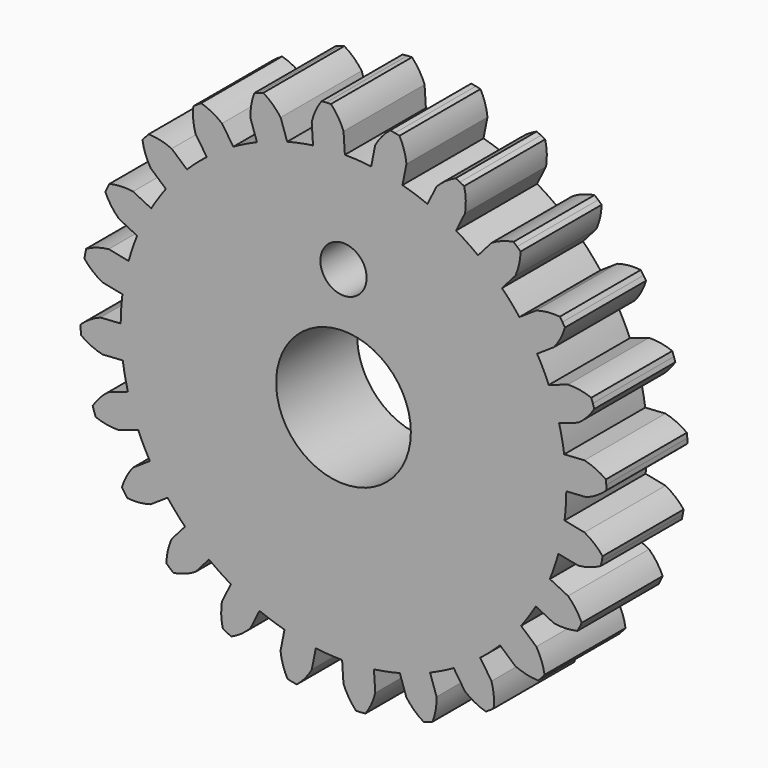
from build123d import *

# Parameters (mm, degrees)
F0_R     = 4.22275
F0_R_2   = 1.449194
F1_DEPTH = 6.35


with BuildPart() as f1:
    # F0 (on Front) → F1 (new body)
    with BuildSketch(Plane.XZ):
        with BuildLine():
            ThreePointArc((13.969731, -0.086696), (13.969933, -0.043348), (13.97, 0))
            ThreePointArc((13.97, 0), (13.937187, 0.956933), (13.838902, 1.90937))
            ThreePointArc((13.838902, 1.90937), (13.70157, 2.725412), (13.516163, 3.53189))
            ThreePointArc((13.516163, 3.53189), (13.228614, 4.490509), (12.873171, 5.426082))
            ThreePointArc((12.873171, 5.426082), (12.529312, 6.178773), (12.14149, 6.909784))
            ThreePointArc((12.14149, 6.909784), (11.61563, 7.761316), (11.030155, 8.573014))
            ThreePointArc((11.030155, 8.573014), (10.503202, 9.211061), (9.939395, 9.816788))
            ThreePointArc((9.939395, 9.816788), (9.211061, 10.503202), (8.435453, 11.13571))
            ThreePointArc((8.435453, 11.13571), (7.761316, 11.61563), (7.059947, 12.054794))
            ThreePointArc((7.059947, 12.054794), (6.178773, 12.529312), (5.265888, 12.939526))
            ThreePointArc((5.265888, 12.939526), (4.490509, 13.228614), (3.699375, 13.471285))
            ThreePointArc((3.699375, 13.471285), (2.725412, 13.70157), (1.737461, 13.861534))
            ThreePointArc((1.737461, 13.861534), (0.913682, 13.940089), (0.086696, 13.969731))
            ThreePointArc((0.086696, 13.969731), (-0.913682, 13.940089), (-1.90937, 13.838902))
            ThreePointArc((-1.90937, 13.838902), (-2.725412, 13.70157), (-3.53189, 13.516163))
            ThreePointArc((-3.53189, 13.516163), (-4.490509, 13.228614), (-5.426082, 12.873171))
            ThreePointArc((-5.426082, 12.873171), (-6.178773, 12.529312), (-6.909784, 12.14149))
            ThreePointArc((-6.909784, 12.14149), (-7.761316, 11.61563), (-8.573014, 11.030155))
            ThreePointArc((-8.573014, 11.030155), (-9.211061, 10.503202), (-9.816788, 9.939395))
            ThreePointArc((-9.816788, 9.939395), (-10.503202, 9.211061), (-11.13571, 8.435453))
            ThreePointArc((-11.13571, 8.435453), (-11.61563, 7.761316), (-12.054794, 7.059947))
            ThreePointArc((-12.054794, 7.059947), (-12.529312, 6.178773), (-12.939526, 5.265888))
            ThreePointArc((-12.939526, 5.265888), (-13.228614, 4.490509), (-13.471285, 3.699375))
            ThreePointArc((-13.471285, 3.699375), (-13.70157, 2.725412), (-13.861534, 1.737461))
            ThreePointArc((-13.861534, 1.737461), (-13.940089, 0.913682), (-13.969731, 0.086696))
            ThreePointArc((-13.969731, 0.086696), (-13.940089, -0.913682), (-13.838902, -1.90937))
            ThreePointArc((-13.838902, -1.90937), (-13.70157, -2.725412), (-13.516163, -3.53189))
            ThreePointArc((-13.516163, -3.53189), (-13.228614, -4.490509), (-12.873171, -5.426082))
            ThreePointArc((-12.873171, -5.426082), (-12.529312, -6.178773), (-12.14149, -6.909784))
            ThreePointArc((-12.14149, -6.909784), (-11.61563, -7.761316), (-11.030155, -8.573014))
            ThreePointArc((-11.030155, -8.573014), (-10.503202, -9.211061), (-9.939395, -9.816788))
            ThreePointArc((-9.939395, -9.816788), (-9.211061, -10.503202), (-8.435453, -11.13571))
            ThreePointArc((-8.435453, -11.13571), (-7.761316, -11.61563), (-7.059947, -12.054794))
            ThreePointArc((-7.059947, -12.054794), (-6.178773, -12.529312), (-5.265888, -12.939526))
            ThreePointArc((-5.265888, -12.939526), (-4.490509, -13.228614), (-3.699375, -13.471285))
            ThreePointArc((-3.699375, -13.471285), (-2.725412, -13.70157), (-1.737461, -13.861534))
            ThreePointArc((-1.737461, -13.861534), (-0.913682, -13.940089), (-0.086696, -13.969731))
            ThreePointArc((-0.086696, -13.969731), (0.913682, -13.940089), (1.90937, -13.838902))
            ThreePointArc((1.90937, -13.838902), (2.725412, -13.70157), (3.53189, -13.516163))
            ThreePointArc((3.53189, -13.516163), (4.490509, -13.228614), (5.426082, -12.873171))
            ThreePointArc((5.426082, -12.873171), (6.178773, -12.529312), (6.909784, -12.14149))
            ThreePointArc((6.909784, -12.14149), (7.761316, -11.61563), (8.573014, -11.030155))
            ThreePointArc((8.573014, -11.030155), (9.211061, -10.503202), (9.816788, -9.939395))
            ThreePointArc((9.816788, -9.939395), (10.503202, -9.211061), (11.13571, -8.435453))
            ThreePointArc((11.13571, -8.435453), (11.61563, -7.761316), (12.054794, -7.059947))
            ThreePointArc((12.054794, -7.059947), (12.529312, -6.178773), (12.939526, -5.265888))
            ThreePointArc((12.939526, -5.265888), (13.228614, -4.490509), (13.471285, -3.699375))
            ThreePointArc((13.471285, -3.699375), (13.70157, -2.725412), (13.861534, -1.737461))
            ThreePointArc((13.861534, -1.737461), (13.940089, -0.913682), (13.969731, -0.086696))
        make_face()
        Circle(F0_R, mode=Mode.SUBTRACT)
        with Locations((0, 7.62)):
            Circle(F0_R_2, mode=Mode.SUBTRACT)
        with BuildLine():
            ThreePointArc((13.838902, 1.90937), (13.937187, 0.956933), (13.97, 0))
            ThreePointArc((13.97, 0), (13.969933, -0.043348), (13.969731, -0.086696))
            Line((13.969731, -0.086696), (15.24, -0.003439))
            ThreePointArc((15.24, -0.003439), (15.90429, 0.32949), (16.491326, 0.785025))
            Line((16.491326, 0.785025), (16.477286, 1.079978))
            Line((16.477286, 1.079978), (16.452707, 1.374241))
            ThreePointArc((16.452707, 1.374241), (15.811233, 1.749255), (15.10917, 1.992628))
            Line((15.10917, 1.992628), (13.838902, 1.90937))
        make_face()
        with BuildLine():
            ThreePointArc((12.873171, 5.426082), (13.228614, 4.490509), (13.516163, 3.53189))
            Line((13.516163, 3.53189), (14.721599, 3.941081))
            ThreePointArc((14.721599, 3.941081), (15.277086, 4.434596), (15.726218, 5.026545))
            Line((15.726218, 5.026545), (15.636317, 5.307814))
            Line((15.636317, 5.307814), (15.536415, 5.585689))
            ThreePointArc((15.536415, 5.585689), (14.819738, 5.781899), (14.078608, 5.835272))
            Line((14.078608, 5.835272), (12.873171, 5.426082))
        make_face()
        with BuildLine():
            Line((15.110068, -1.98581), (13.861534, -1.737461))
            ThreePointArc((13.861534, -1.737461), (13.70157, -2.725412), (13.471285, -3.699375))
            Line((13.471285, -3.699375), (14.719819, -3.947724))
            ThreePointArc((14.719819, -3.947724), (15.447643, -3.79807), (16.132577, -3.509994))
            Line((16.132577, -3.509994), (16.195355, -3.221456))
            Line((16.195355, -3.221456), (16.247774, -2.930859))
            ThreePointArc((16.247774, -2.930859), (15.725219, -2.402598), (15.110068, -1.98581))
        make_face()
        with BuildLine():
            ThreePointArc((11.030155, 8.573014), (11.61563, 7.761316), (12.14149, 6.909784))
            Line((12.14149, 6.909784), (13.199946, 7.617022))
            ThreePointArc((13.199946, 7.617022), (13.608774, 8.237492), (13.889395, 8.925514))
            Line((13.889395, 8.925514), (13.729759, 9.173932))
            Line((13.729759, 9.173932), (13.561341, 9.416481))
            ThreePointArc((13.561341, 9.416481), (12.818302, 9.420516), (12.088611, 9.280252))
            Line((12.088611, 9.280252), (11.030155, 8.573014))
        make_face()
        with BuildLine():
            Line((14.08124, -5.828919), (12.939526, -5.265888))
            ThreePointArc((12.939526, -5.265888), (12.529312, -6.178773), (12.054794, -7.059947))
            Line((12.054794, -7.059947), (13.196508, -7.622978))
            ThreePointArc((13.196508, -7.622978), (13.938264, -7.666798), (14.67442, -7.565812))
            Line((14.67442, -7.565812), (14.809737, -7.303354))
            Line((14.809737, -7.303354), (14.935583, -7.036225))
            ThreePointArc((14.935583, -7.036225), (14.567557, -6.390718), (14.08124, -5.828919))
        make_face()
        with BuildLine():
            ThreePointArc((8.435453, 11.13571), (9.211061, 10.503202), (9.939395, 9.816788))
            Line((9.939395, 9.816788), (10.778738, 10.773876))
            ThreePointArc((10.778738, 10.773876), (11.013046, 11.479016), (11.106032, 12.216225))
            Line((11.106032, 12.216225), (10.88754, 12.41486))
            Line((10.88754, 12.41486), (10.662085, 12.605556))
            ThreePointArc((10.662085, 12.605556), (9.94332, 12.41714), (9.274796, 12.092798))
            Line((9.274796, 12.092798), (8.435453, 11.13571))
        make_face()
        with BuildLine():
            Line((12.092798, -9.274796), (11.13571, -8.435453))
            ThreePointArc((11.13571, -8.435453), (10.503202, -9.211061), (9.816788, -9.939395))
            Line((9.816788, -9.939395), (10.773876, -10.778738))
            ThreePointArc((10.773876, -10.778738), (11.479016, -11.013046), (12.216225, -11.106032))
            Line((12.216225, -11.106032), (12.41486, -10.88754))
            Line((12.41486, -10.88754), (12.605556, -10.662085))
            ThreePointArc((12.605556, -10.662085), (12.41714, -9.94332), (12.092798, -9.274796))
        make_face()
        with BuildLine():
            ThreePointArc((5.265888, 12.939526), (6.178773, 12.529312), (7.059947, 12.054794))
            Line((7.059947, 12.054794), (7.622978, 13.196508))
            ThreePointArc((7.622978, 13.196508), (7.666798, 13.938264), (7.565812, 14.67442))
            Line((7.565812, 14.67442), (7.303354, 14.809737))
            Line((7.303354, 14.809737), (7.036225, 14.935583))
            ThreePointArc((7.036225, 14.935583), (6.390718, 14.567557), (5.828919, 14.08124))
            Line((5.828919, 14.08124), (5.265888, 12.939526))
        make_face()
        with BuildLine():
            Line((9.280252, -12.088611), (8.573014, -11.030155))
            ThreePointArc((8.573014, -11.030155), (7.761316, -11.61563), (6.909784, -12.14149))
            Line((6.909784, -12.14149), (7.617022, -13.199946))
            ThreePointArc((7.617022, -13.199946), (8.237492, -13.608774), (8.925514, -13.889395))
            Line((8.925514, -13.889395), (9.173932, -13.729759))
            Line((9.173932, -13.729759), (9.416481, -13.561341))
            ThreePointArc((9.416481, -13.561341), (9.420516, -12.818302), (9.280252, -12.088611))
        make_face()
        with BuildLine():
            ThreePointArc((1.737461, 13.861534), (2.725412, 13.70157), (3.699375, 13.471285))
            Line((3.699375, 13.471285), (3.947724, 14.719819))
            ThreePointArc((3.947724, 14.719819), (3.79807, 15.447643), (3.509994, 16.132577))
            Line((3.509994, 16.132577), (3.221456, 16.195355))
            Line((3.221456, 16.195355), (2.930859, 16.247774))
            ThreePointArc((2.930859, 16.247774), (2.402598, 15.725219), (1.98581, 15.110068))
            Line((1.98581, 15.110068), (1.737461, 13.861534))
        make_face()
        with BuildLine():
            Line((5.835272, -14.078608), (5.426082, -12.873171))
            ThreePointArc((5.426082, -12.873171), (4.490509, -13.228614), (3.53189, -13.516163))
            Line((3.53189, -13.516163), (3.941081, -14.721599))
            ThreePointArc((3.941081, -14.721599), (4.434596, -15.277086), (5.026545, -15.726218))
            Line((5.026545, -15.726218), (5.307814, -15.636317))
            Line((5.307814, -15.636317), (5.585689, -15.536415))
            ThreePointArc((5.585689, -15.536415), (5.781899, -14.819738), (5.835272, -14.078608))
        make_face()
        with BuildLine():
            ThreePointArc((-1.90937, 13.838902), (-0.913682, 13.940089), (0.086696, 13.969731))
            Line((0.086696, 13.969731), (0.003439, 15.24))
            ThreePointArc((0.003439, 15.24), (-0.32949, 15.90429), (-0.785025, 16.491326))
            Line((-0.785025, 16.491326), (-1.079978, 16.477286))
            Line((-1.079978, 16.477286), (-1.374241, 16.452707))
            ThreePointArc((-1.374241, 16.452707), (-1.749255, 15.811233), (-1.992628, 15.10917))
            Line((-1.992628, 15.10917), (-1.90937, 13.838902))
        make_face()
        with BuildLine():
            Line((1.992628, -15.10917), (1.90937, -13.838902))
            ThreePointArc((1.90937, -13.838902), (0.913682, -13.940089), (-0.086696, -13.969731))
            Line((-0.086696, -13.969731), (-0.003439, -15.24))
            ThreePointArc((-0.003439, -15.24), (0.32949, -15.90429), (0.785025, -16.491326))
            Line((0.785025, -16.491326), (1.079978, -16.477286))
            Line((1.079978, -16.477286), (1.374241, -16.452707))
            ThreePointArc((1.374241, -16.452707), (1.749255, -15.811233), (1.992628, -15.10917))
        make_face()
        with BuildLine():
            ThreePointArc((-5.426082, 12.873171), (-4.490509, 13.228614), (-3.53189, 13.516163))
            Line((-3.53189, 13.516163), (-3.941081, 14.721599))
            ThreePointArc((-3.941081, 14.721599), (-4.434596, 15.277086), (-5.026545, 15.726218))
            Line((-5.026545, 15.726218), (-5.307814, 15.636317))
            Line((-5.307814, 15.636317), (-5.585689, 15.536415))
            ThreePointArc((-5.585689, 15.536415), (-5.781899, 14.819738), (-5.835272, 14.078608))
            Line((-5.835272, 14.078608), (-5.426082, 12.873171))
        make_face()
        with BuildLine():
            Line((-1.98581, -15.110068), (-1.737461, -13.861534))
            ThreePointArc((-1.737461, -13.861534), (-2.725412, -13.70157), (-3.699375, -13.471285))
            Line((-3.699375, -13.471285), (-3.947724, -14.719819))
            ThreePointArc((-3.947724, -14.719819), (-3.79807, -15.447643), (-3.509994, -16.132577))
            Line((-3.509994, -16.132577), (-3.221456, -16.195355))
            Line((-3.221456, -16.195355), (-2.930859, -16.247774))
            ThreePointArc((-2.930859, -16.247774), (-2.402598, -15.725219), (-1.98581, -15.110068))
        make_face()
        with BuildLine():
            ThreePointArc((-8.573014, 11.030155), (-7.761316, 11.61563), (-6.909784, 12.14149))
            Line((-6.909784, 12.14149), (-7.617022, 13.199946))
            ThreePointArc((-7.617022, 13.199946), (-8.237492, 13.608774), (-8.925514, 13.889395))
            Line((-8.925514, 13.889395), (-9.173932, 13.729759))
            Line((-9.173932, 13.729759), (-9.416481, 13.561341))
            ThreePointArc((-9.416481, 13.561341), (-9.420516, 12.818302), (-9.280252, 12.088611))
            Line((-9.280252, 12.088611), (-8.573014, 11.030155))
        make_face()
        with BuildLine():
            Line((-5.828919, -14.08124), (-5.265888, -12.939526))
            ThreePointArc((-5.265888, -12.939526), (-6.178773, -12.529312), (-7.059947, -12.054794))
            Line((-7.059947, -12.054794), (-7.622978, -13.196508))
            ThreePointArc((-7.622978, -13.196508), (-7.666798, -13.938264), (-7.565812, -14.67442))
            Line((-7.565812, -14.67442), (-7.303354, -14.809737))
            Line((-7.303354, -14.809737), (-7.036225, -14.935583))
            ThreePointArc((-7.036225, -14.935583), (-6.390718, -14.567557), (-5.828919, -14.08124))
        make_face()
        with BuildLine():
            ThreePointArc((-11.13571, 8.435453), (-10.503202, 9.211061), (-9.816788, 9.939395))
            Line((-9.816788, 9.939395), (-10.773876, 10.778738))
            ThreePointArc((-10.773876, 10.778738), (-11.479016, 11.013046), (-12.216225, 11.106032))
            Line((-12.216225, 11.106032), (-12.41486, 10.88754))
            Line((-12.41486, 10.88754), (-12.605556, 10.662085))
            ThreePointArc((-12.605556, 10.662085), (-12.41714, 9.94332), (-12.092798, 9.274796))
            Line((-12.092798, 9.274796), (-11.13571, 8.435453))
        make_face()
        with BuildLine():
            Line((-9.274796, -12.092798), (-8.435453, -11.13571))
            ThreePointArc((-8.435453, -11.13571), (-9.211061, -10.503202), (-9.939395, -9.816788))
            Line((-9.939395, -9.816788), (-10.778738, -10.773876))
            ThreePointArc((-10.778738, -10.773876), (-11.013046, -11.479016), (-11.106032, -12.216225))
            Line((-11.106032, -12.216225), (-10.88754, -12.41486))
            Line((-10.88754, -12.41486), (-10.662085, -12.605556))
            ThreePointArc((-10.662085, -12.605556), (-9.94332, -12.41714), (-9.274796, -12.092798))
        make_face()
        with BuildLine():
            ThreePointArc((-12.939526, 5.265888), (-12.529312, 6.178773), (-12.054794, 7.059947))
            Line((-12.054794, 7.059947), (-13.196508, 7.622978))
            ThreePointArc((-13.196508, 7.622978), (-13.938264, 7.666798), (-14.67442, 7.565812))
            Line((-14.67442, 7.565812), (-14.809737, 7.303354))
            Line((-14.809737, 7.303354), (-14.935583, 7.036225))
            ThreePointArc((-14.935583, 7.036225), (-14.567557, 6.390718), (-14.08124, 5.828919))
            Line((-14.08124, 5.828919), (-12.939526, 5.265888))
        make_face()
        with BuildLine():
            Line((-12.088611, -9.280252), (-11.030155, -8.573014))
            ThreePointArc((-11.030155, -8.573014), (-11.61563, -7.761316), (-12.14149, -6.909784))
            Line((-12.14149, -6.909784), (-13.199946, -7.617022))
            ThreePointArc((-13.199946, -7.617022), (-13.608774, -8.237492), (-13.889395, -8.925514))
            Line((-13.889395, -8.925514), (-13.729759, -9.173932))
            Line((-13.729759, -9.173932), (-13.561341, -9.416481))
            ThreePointArc((-13.561341, -9.416481), (-12.818302, -9.420516), (-12.088611, -9.280252))
        make_face()
        with BuildLine():
            ThreePointArc((-13.861534, 1.737461), (-13.70157, 2.725412), (-13.471285, 3.699375))
            Line((-13.471285, 3.699375), (-14.719819, 3.947724))
            ThreePointArc((-14.719819, 3.947724), (-15.447643, 3.79807), (-16.132577, 3.509994))
            Line((-16.132577, 3.509994), (-16.195355, 3.221456))
            Line((-16.195355, 3.221456), (-16.247774, 2.930859))
            ThreePointArc((-16.247774, 2.930859), (-15.725219, 2.402598), (-15.110068, 1.98581))
            Line((-15.110068, 1.98581), (-13.861534, 1.737461))
        make_face()
        with BuildLine():
            Line((-14.078608, -5.835272), (-12.873171, -5.426082))
            ThreePointArc((-12.873171, -5.426082), (-13.228614, -4.490509), (-13.516163, -3.53189))
            Line((-13.516163, -3.53189), (-14.721599, -3.941081))
            ThreePointArc((-14.721599, -3.941081), (-15.277086, -4.434596), (-15.726218, -5.026545))
            Line((-15.726218, -5.026545), (-15.636317, -5.307814))
            Line((-15.636317, -5.307814), (-15.536415, -5.585689))
            ThreePointArc((-15.536415, -5.585689), (-14.819738, -5.781899), (-14.078608, -5.835272))
        make_face()
        with BuildLine():
            ThreePointArc((-13.838902, -1.90937), (-13.940089, -0.913682), (-13.969731, 0.086696))
            Line((-13.969731, 0.086696), (-15.24, 0.003439))
            ThreePointArc((-15.24, 0.003439), (-15.90429, -0.32949), (-16.491326, -0.785025))
            Line((-16.491326, -0.785025), (-16.477286, -1.079978))
            Line((-16.477286, -1.079978), (-16.452707, -1.374241))
            ThreePointArc((-16.452707, -1.374241), (-15.811233, -1.749255), (-15.10917, -1.992628))
            Line((-15.10917, -1.992628), (-13.838902, -1.90937))
        make_face()
        with BuildLine():
            ThreePointArc((13.969731, -0.086696), (13.969933, -0.043348), (13.97, 0))
            ThreePointArc((13.97, 0), (13.937187, 0.956933), (13.838902, 1.90937))
            ThreePointArc((13.838902, 1.90937), (13.70157, 2.725412), (13.516163, 3.53189))
            ThreePointArc((13.516163, 3.53189), (13.228614, 4.490509), (12.873171, 5.426082))
            ThreePointArc((12.873171, 5.426082), (12.529312, 6.178773), (12.14149, 6.909784))
            ThreePointArc((12.14149, 6.909784), (11.61563, 7.761316), (11.030155, 8.573014))
            ThreePointArc((11.030155, 8.573014), (10.503202, 9.211061), (9.939395, 9.816788))
            ThreePointArc((9.939395, 9.816788), (9.211061, 10.503202), (8.435453, 11.13571))
            ThreePointArc((8.435453, 11.13571), (7.761316, 11.61563), (7.059947, 12.054794))
            ThreePointArc((7.059947, 12.054794), (6.178773, 12.529312), (5.265888, 12.939526))
            ThreePointArc((5.265888, 12.939526), (4.490509, 13.228614), (3.699375, 13.471285))
            ThreePointArc((3.699375, 13.471285), (2.725412, 13.70157), (1.737461, 13.861534))
            ThreePointArc((1.737461, 13.861534), (0.913682, 13.940089), (0.086696, 13.969731))
            ThreePointArc((0.086696, 13.969731), (-0.913682, 13.940089), (-1.90937, 13.838902))
            ThreePointArc((-1.90937, 13.838902), (-2.725412, 13.70157), (-3.53189, 13.516163))
            ThreePointArc((-3.53189, 13.516163), (-4.490509, 13.228614), (-5.426082, 12.873171))
            ThreePointArc((-5.426082, 12.873171), (-6.178773, 12.529312), (-6.909784, 12.14149))
            ThreePointArc((-6.909784, 12.14149), (-7.761316, 11.61563), (-8.573014, 11.030155))
            ThreePointArc((-8.573014, 11.030155), (-9.211061, 10.503202), (-9.816788, 9.939395))
            ThreePointArc((-9.816788, 9.939395), (-10.503202, 9.211061), (-11.13571, 8.435453))
            ThreePointArc((-11.13571, 8.435453), (-11.61563, 7.761316), (-12.054794, 7.059947))
            ThreePointArc((-12.054794, 7.059947), (-12.529312, 6.178773), (-12.939526, 5.265888))
            ThreePointArc((-12.939526, 5.265888), (-13.228614, 4.490509), (-13.471285, 3.699375))
            ThreePointArc((-13.471285, 3.699375), (-13.70157, 2.725412), (-13.861534, 1.737461))
            ThreePointArc((-13.861534, 1.737461), (-13.940089, 0.913682), (-13.969731, 0.086696))
            ThreePointArc((-13.969731, 0.086696), (-13.940089, -0.913682), (-13.838902, -1.90937))
            ThreePointArc((-13.838902, -1.90937), (-13.70157, -2.725412), (-13.516163, -3.53189))
            ThreePointArc((-13.516163, -3.53189), (-13.228614, -4.490509), (-12.873171, -5.426082))
            ThreePointArc((-12.873171, -5.426082), (-12.529312, -6.178773), (-12.14149, -6.909784))
            ThreePointArc((-12.14149, -6.909784), (-11.61563, -7.761316), (-11.030155, -8.573014))
            ThreePointArc((-11.030155, -8.573014), (-10.503202, -9.211061), (-9.939395, -9.816788))
            ThreePointArc((-9.939395, -9.816788), (-9.211061, -10.503202), (-8.435453, -11.13571))
            ThreePointArc((-8.435453, -11.13571), (-7.761316, -11.61563), (-7.059947, -12.054794))
            ThreePointArc((-7.059947, -12.054794), (-6.178773, -12.529312), (-5.265888, -12.939526))
            ThreePointArc((-5.265888, -12.939526), (-4.490509, -13.228614), (-3.699375, -13.471285))
            ThreePointArc((-3.699375, -13.471285), (-2.725412, -13.70157), (-1.737461, -13.861534))
            ThreePointArc((-1.737461, -13.861534), (-0.913682, -13.940089), (-0.086696, -13.969731))
            ThreePointArc((-0.086696, -13.969731), (0.913682, -13.940089), (1.90937, -13.838902))
            ThreePointArc((1.90937, -13.838902), (2.725412, -13.70157), (3.53189, -13.516163))
            ThreePointArc((3.53189, -13.516163), (4.490509, -13.228614), (5.426082, -12.873171))
            ThreePointArc((5.426082, -12.873171), (6.178773, -12.529312), (6.909784, -12.14149))
            ThreePointArc((6.909784, -12.14149), (7.761316, -11.61563), (8.573014, -11.030155))
            ThreePointArc((8.573014, -11.030155), (9.211061, -10.503202), (9.816788, -9.939395))
            ThreePointArc((9.816788, -9.939395), (10.503202, -9.211061), (11.13571, -8.435453))
            ThreePointArc((11.13571, -8.435453), (11.61563, -7.761316), (12.054794, -7.059947))
            ThreePointArc((12.054794, -7.059947), (12.529312, -6.178773), (12.939526, -5.265888))
            ThreePointArc((12.939526, -5.265888), (13.228614, -4.490509), (13.471285, -3.699375))
            ThreePointArc((13.471285, -3.699375), (13.70157, -2.725412), (13.861534, -1.737461))
            ThreePointArc((13.861534, -1.737461), (13.940089, -0.913682), (13.969731, -0.086696))
        make_face()
        Circle(F0_R, mode=Mode.SUBTRACT)
        with Locations((0, 7.62)):
            Circle(F0_R_2, mode=Mode.SUBTRACT)
    extrude(amount=F1_DEPTH)


solid = f1.part
